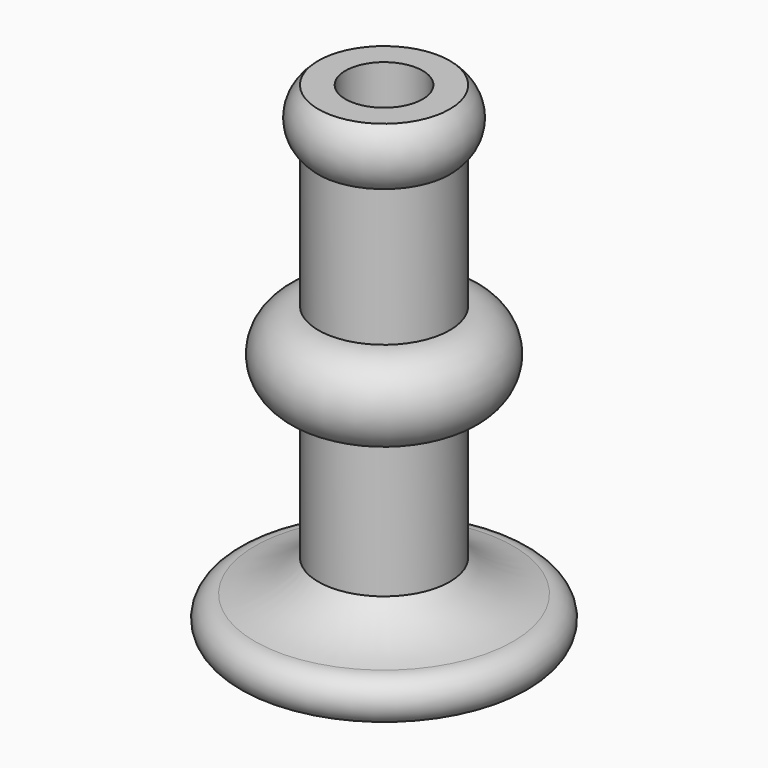
from build123d import *


with BuildPart() as f1:
    # F0 (on Front) → F1 (revolve)
    with BuildSketch(Plane.XZ):
        with BuildLine():
            Line((0, 179.160506), (0, 0))
            Line((0, 0), (62.518604, 0))
            ThreePointArc((62.518604, 0), (72.91275, 10.394146), (62.518604, 20.788292))
            ThreePointArc((62.518604, 20.788292), (45.913128, 26.004496), (31.790324, 36.177844))
            Line((31.790324, 36.177844), (31.790324, 102.48149))
            ThreePointArc((31.790324, 102.48149), (52.214991, 122.906158), (31.790324, 143.330825))
            Line((31.790324, 143.330825), (31.790324, 209.634472))
            ThreePointArc((31.790324, 209.634472), (38.135859, 223.550893), (31.790324, 237.467315))
            Line((31.790324, 237.467315), (18.661554, 237.467315))
            Line((18.661554, 237.467315), (18.661554, 179.160506))
            Line((18.661554, 179.160506), (0, 179.160506))
        make_face()
    revolve(axis=Axis((0, 0, 89.580253), (0, 0, -1)))


solid = f1.part
